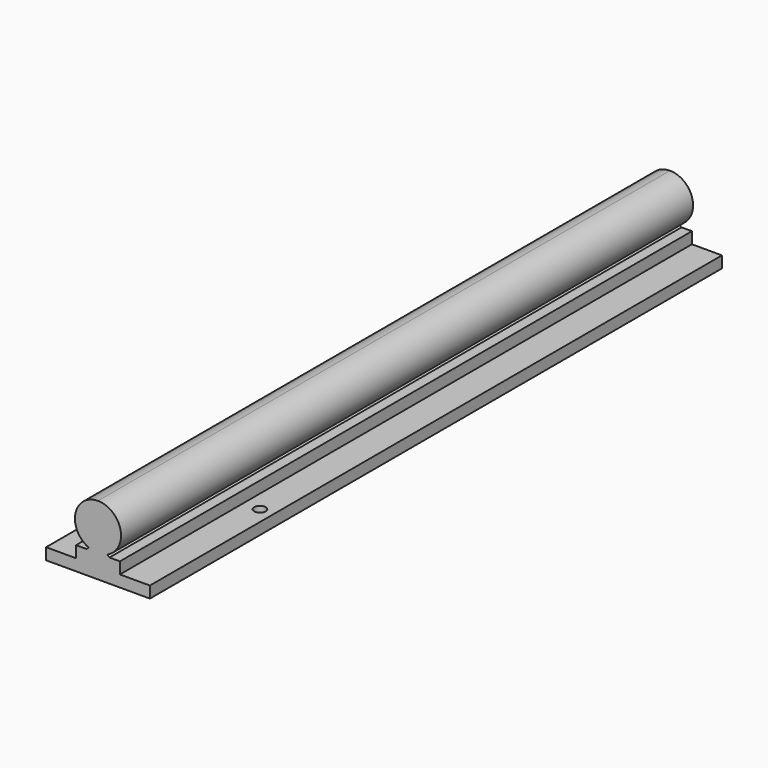
from build123d import *

# Parameters (mm, degrees)
F1_DEPTH = 310
F3_D     = 5


with BuildPart() as f1:
    # F0 (on Front) → F1 (new body)
    with BuildSketch(Plane.XZ):
        with BuildLine():
            ThreePointArc((0, 10), (2.043096, 10.210937), (4, 10.834849))
            ThreePointArc((4, 10.834849), (9.789063, 22.043096), (0, 30))
            ThreePointArc((0, 30), (-9.789063, 22.043096), (-4, 10.834849))
            ThreePointArc((-4, 10.834849), (-2.043096, 10.210937), (0, 10))
        make_face()
        with BuildLine():
            Line((-22.5, 0), (0, 0))
            Line((0, 0), (22.5, 0))
            Line((22.5, 0), (22.5, 5))
            Line((22.5, 5), (9.5, 5))
            Line((9.5, 5), (9.5, 10))
            Line((9.5, 10), (4.994934, 10))
            Line((4.994934, 10), (4, 10.834849))
            ThreePointArc((4, 10.834849), (2.043096, 10.210937), (0, 10))
            ThreePointArc((0, 10), (-2.043096, 10.210937), (-4, 10.834849))
            Line((-4, 10.834849), (-4.994934, 10))
            Line((-4.994934, 10), (-9.5, 10))
            Line((-9.5, 10), (-9.5, 5))
            Line((-9.5, 5), (-22.5, 5))
            Line((-22.5, 5), (-22.5, 0))
        make_face()
    extrude(amount=F1_DEPTH)

    # F3 (through all)
    with Locations(Plane.XY.offset(5)):
        with Locations((16.671421, -243.071973)):
            Hole(F3_D / 2)


solid = f1.part
